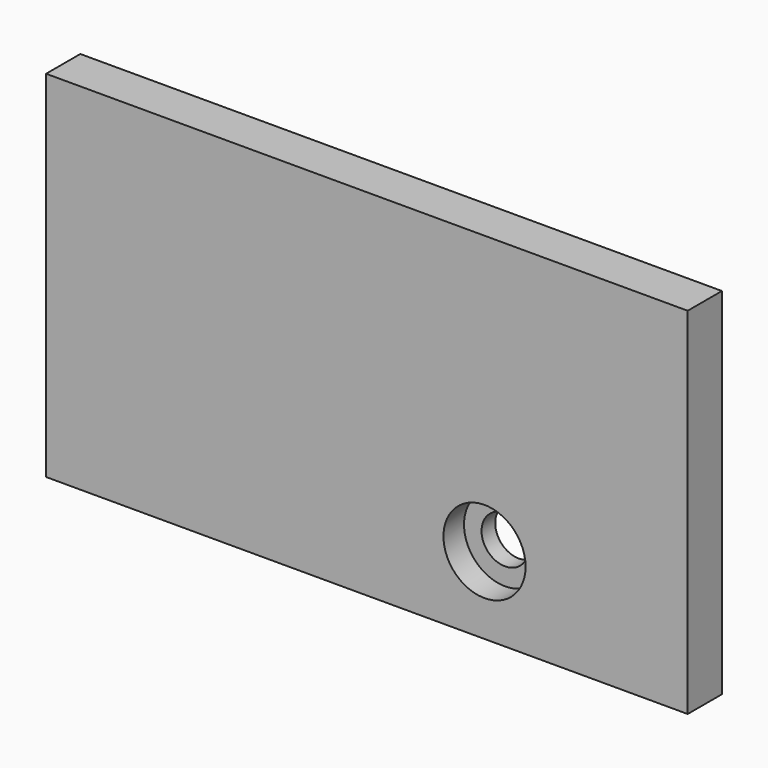
from build123d import *

# Parameters (mm, degrees)
SKETCH_AS_DRAWN_R                    = 9.6
EXTRUDE_DEPTH                        = 6
EXTRUDE_ONTO_SKETCH_ROLL_ANGLE       = 90
SKETCH001_AS_DRAWN_W                 = 150
SKETCH001_AS_DRAWN_H                 = 83
SKETCH001_AS_DRAWN_R                 = 5.5
EXTRUDE001_DEPTH                     = 10
EXTRUDE001_ONTO_SKETCH001_ROLL_ANGLE = 90


with BuildPart() as obj1:
    # Sketch as drawn → Extrude (new)
    with BuildSketch(Plane.XY):
        Circle(SKETCH_AS_DRAWN_R)
    extrude(amount=-EXTRUDE_DEPTH)


with BuildPart() as obj1_1:
    # Extrude onto Sketch roll: moved
    add(obj1.part.rotate(Axis((0, 0, 0), (1, 0, 0)), EXTRUDE_ONTO_SKETCH_ROLL_ANGLE))


with BuildPart() as obj1_2:
    # Extrude onto Sketch placement: moved
    add(obj1_1.part)


with BuildPart() as obj2:
    # Sketch001 as drawn → Extrude001 (new)
    with BuildSketch(Plane.XY):
        with Locations((-27.5, 23.5)):
            Rectangle(SKETCH001_AS_DRAWN_W, SKETCH001_AS_DRAWN_H)
        Circle(SKETCH001_AS_DRAWN_R, mode=Mode.SUBTRACT)
    extrude(amount=-EXTRUDE001_DEPTH)


with BuildPart() as obj2_1:
    # Extrude001 onto Sketch001 roll: moved
    add(obj2.part.rotate(Axis((0, 0, 0), (1, 0, 0)), EXTRUDE001_ONTO_SKETCH001_ROLL_ANGLE))


with BuildPart() as obj2_2:
    # Extrude001 onto Sketch001 placement: moved
    add(obj2_1.part)

    # Cut: cut obj1
    add(obj1_2.part, mode=Mode.SUBTRACT)


solid = obj2_2.part
